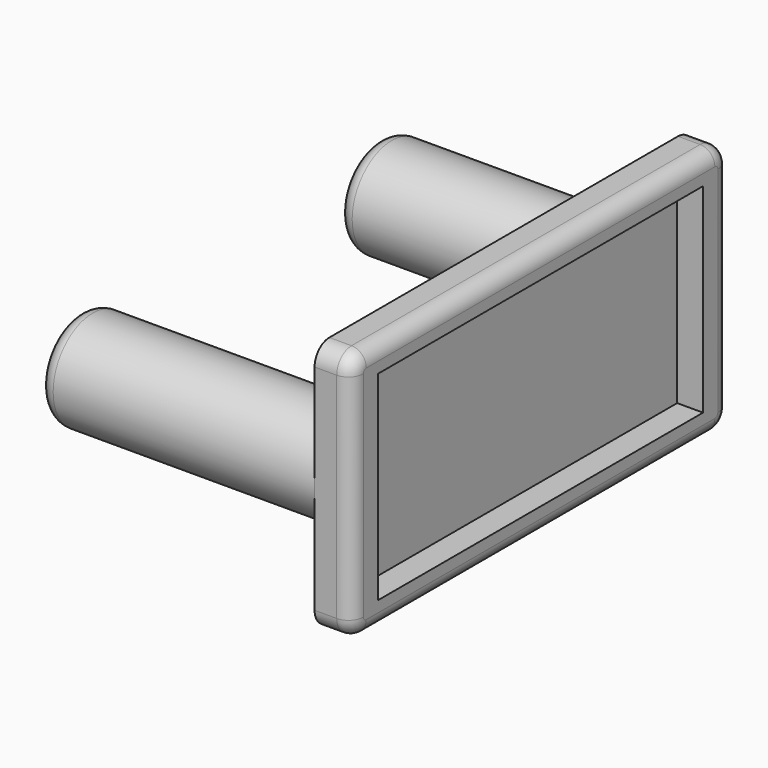
from build123d import *

# Parameters (mm, degrees)
F1_DEPTH = 12.7
F2_W     = 139.7
F2_H     = 68.58
F3_DEPTH = 8.89
F4_R     = 5.08
F5_R     = 17
F6_DEPTH = 95
F7_R     = 5.08


with BuildPart() as f1:
    # F0 (on Right) → F1 (new body)
    with BuildSketch(Plane.YZ):
        with BuildLine():
            Line((74.93, 43.18), (-74.93, 43.18))
            ThreePointArc((-74.93, 43.18), (-79.420128, 41.320128), (-81.28, 36.83))
            Line((-81.28, 36.83), (-81.28, -36.83))
            ThreePointArc((-81.28, -36.83), (-79.420128, -41.320128), (-74.93, -43.18))
            Line((-74.93, -43.18), (74.93, -43.18))
            ThreePointArc((74.93, -43.18), (79.420128, -41.320128), (81.28, -36.83))
            Line((81.28, -36.83), (81.28, 36.83))
            ThreePointArc((81.28, 36.83), (79.420128, 41.320128), (74.93, 43.18))
        make_face()
    extrude(amount=F1_DEPTH)

    # F2 (on face) → F3 (cut)
    with BuildSketch(Plane.YZ.offset(12.7)):
        Rectangle(F2_W, F2_H)
    extrude(amount=-F3_DEPTH, mode=Mode.SUBTRACT)

    # F4
    f4_edges = [f1.edges().sort_by_distance(p)[0] for p in [
        (12.7, 81.28, 0),
        (12.7, 0, 43.18),
        (12.7, -81.28, 0),
        (12.7, 0, -43.18),
    ]]
    fillet(f4_edges, radius=F4_R)

    # F5 (on face) → F6 (join)
    with BuildSketch(Plane(origin=(0, 0, 0), x_dir=(0, -1, 0), z_dir=(-1, 0, 0))):
        with Locations((-64.28, 0)):
            Circle(F5_R)
        with Locations((64.28, 0)):
            Circle(F5_R)
    extrude(amount=F6_DEPTH)

    # F7
    f7_edges = [f1.edges().sort_by_distance(p)[0] for p in [
        (-95, -47.28, 0),
        (-95, 81.28, 0),
    ]]
    fillet(f7_edges, radius=F7_R)


solid = f1.part
